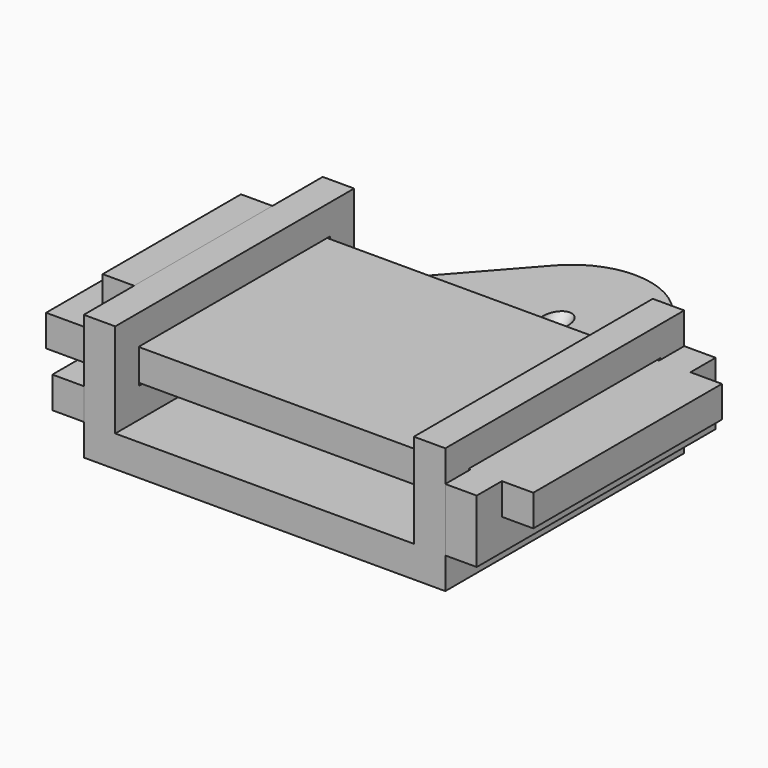
from build123d import *

# Parameters (mm, degrees)
PAD_DEPTH         = 4
SKETCH001_R       = 1.6
POCKET_DEPTH      = 37.7203
SKETCH002_W       = 4
SKETCH002_H       = 38
PAD001_DEPTH      = 12
SKETCH003_W       = 30.4
SKETCH003_H       = 4.4
POCKET001_DEPTH   = 46.001
FILLET_R          = 10
PAD002_START      = 4
SKETCH004_W       = 4
SKETCH004_H       = 38
PAD002_DEPTH      = 8
SKETCH005_W       = 30
SKETCH005_H       = 4
PAD003_DEPTH      = 54
SKETCH006_W       = 4.2
SKETCH006_H       = 22.4
POCKET002_DEPTH   = 4
SKETCH009_W       = 30
SKETCH009_H       = 4
PAD006_DEPTH      = 4
PAD004_START      = 8
SKETCH007_W       = 4
SKETCH007_H       = 12
PAD004_DEPTH      = 22
SKETCH008_W       = 4
SKETCH008_H       = 4
PAD005_DEPTH      = 8
PAD005_DEPTH_BACK = 30


with BuildPart() as base_body:
    # Sketch → Pad (new body)
    with BuildSketch(Plane.XY):
        Polygon((-23, -38), (-23, 0), (0, 26), (23, 0), (23, -4), (23, -34), (23, -38), (19, -38), (-19, -38), align=None)
    extrude(amount=PAD_DEPTH)

    # Sketch001 (on Face11 of Pad) → Pocket (cut, through all)
    with BuildSketch(Plane(origin=(0, 0.979185, 14.363961), x_dir=(1, 0, 0), z_dir=(0, 0.707107, 0.707107))):
        with Locations((0, 12.510408)):
            Circle(SKETCH001_R)
    extrude(amount=-POCKET_DEPTH, mode=Mode.SUBTRACT)

    # Sketch002 (on Face11 of Pad) → Pad001 (join)
    with BuildSketch(Plane.XY.offset(4)):
        with Locations((-21, -19)):
            Rectangle(SKETCH002_W, SKETCH002_H)
        with Locations((21, -19)):
            Rectangle(SKETCH002_W, SKETCH002_H)
    extrude(amount=PAD001_DEPTH)

    # Sketch003 (on Face5 of Pad001) → Pocket001 (cut, through all)
    with BuildSketch(Plane(origin=(-23, 0, 0), x_dir=(0, -1, 0), z_dir=(-1, 0, 0))):
        with Locations((19, 10)):
            Rectangle(SKETCH003_W, SKETCH003_H)
    extrude(amount=-POCKET001_DEPTH, mode=Mode.SUBTRACT)

    # Fillet
    fillet_edges = [base_body.edges().sort_by_distance(p)[0] for p in [
        (0, 26, 2),
    ]]
    fillet(fillet_edges, radius=FILLET_R)


with BuildPart() as pin:
    # Sketch004 → Pad002 (new body)
    with BuildSketch(Plane.XY.offset(PAD002_START)):
        with Locations((25, -19)):
            Rectangle(SKETCH004_W, SKETCH004_H)
    extrude(amount=PAD002_DEPTH)

    # Sketch005 (on Face2 of Pad002) → Pad003 (join)
    with BuildSketch(Plane(origin=(23, 0, 0), x_dir=(0, -1, 0), z_dir=(-1, 0, 0))):
        with Locations((19, 10)):
            Rectangle(SKETCH005_W, SKETCH005_H)
    extrude(amount=PAD003_DEPTH)

    # Sketch006 (on Face10 of Pad003) → Pocket002 (cut)
    with BuildSketch(Plane.XY.offset(12)):
        with Locations((-25.1, -19)):
            Rectangle(SKETCH006_W, SKETCH006_H)
    extrude(amount=-POCKET002_DEPTH, mode=Mode.SUBTRACT)

    # Sketch009 (on Face2 of Pocket002) → Pad006 (join)
    with BuildSketch(Plane.YZ.offset(27)):
        with Locations((-19, 10)):
            Rectangle(SKETCH009_W, SKETCH009_H)
    extrude(amount=PAD006_DEPTH)


with BuildPart() as locking_pin:
    # Sketch007 → Pad004 (new body)
    with BuildSketch(Plane.XZ.offset(PAD004_START)):
        with Locations((-25, 10)):
            Rectangle(SKETCH007_W, SKETCH007_H)
    extrude(amount=PAD004_DEPTH)

    # Sketch008 (on Face6 of Pad004) → Pad005 (join, two sides)
    with BuildSketch(Plane.XZ.offset(30)) as pad005_sk:
        with Locations((-25, 6)):
            Rectangle(SKETCH008_W, SKETCH008_H)
    extrude(amount=PAD005_DEPTH)
    extrude(pad005_sk.sketch, amount=-PAD005_DEPTH_BACK)


solid = Compound([base_body.part, pin.part, locking_pin.part])
